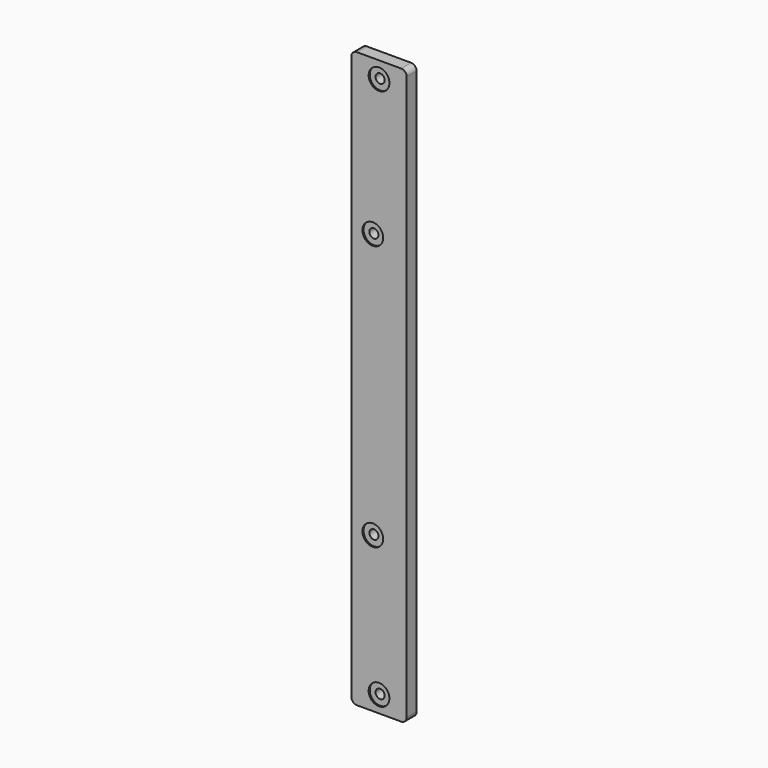
from build123d import *

# Parameters (mm, degrees)
F0_R     = 7.5
F0_R_2   = 3.3
F1_DEPTH = 18
F2_DEPTH = 9
F3_DEPTH = 10


with BuildPart() as f1:
    # F0 (on Front) → F1 (new body)
    with BuildSketch(Plane.XZ):
        with BuildLine():
            ThreePointArc((-56.863438, -160.968715), (-55.691865, -163.797142), (-52.863438, -164.968715))
            Line((-52.863438, -164.968715), (-20.863438, -164.968715))
            ThreePointArc((-20.863438, -164.968715), (-18.035011, -163.797142), (-16.863438, -160.968715))
            Line((-16.863438, -160.968715), (-16.863438, 246.631285))
            ThreePointArc((-16.863438, 246.631285), (-18.035011, 249.459712), (-20.863438, 250.631285))
            Line((-20.863438, 250.631285), (-52.863438, 250.631285))
            ThreePointArc((-52.863438, 250.631285), (-55.691865, 249.459712), (-56.863438, 246.631285))
            Line((-56.863438, 246.631285), (-56.863438, -160.968715))
        make_face()
        with Locations((-36.863438, -152.968715)):
            Circle(F0_R, mode=Mode.SUBTRACT)
        with Locations((-41.363438, -52.968715)):
            Circle(F0_R, mode=Mode.SUBTRACT)
        with Locations((-41.363438, 138.631285)):
            Circle(F0_R, mode=Mode.SUBTRACT)
        with Locations((-36.863438, 238.631285)):
            Circle(F0_R, mode=Mode.SUBTRACT)
        with Locations((-36.863438, 238.631285)):
            Circle(F0_R)
        with Locations((-36.863438, 238.631285)):
            Circle(F0_R_2, mode=Mode.SUBTRACT)
        with Locations((-41.363438, 138.631285)):
            Circle(F0_R)
        with Locations((-41.363438, 138.631285)):
            Circle(F0_R_2, mode=Mode.SUBTRACT)
        with Locations((-41.363438, -52.968715)):
            Circle(F0_R)
        with Locations((-41.363438, -52.968715)):
            Circle(F0_R_2, mode=Mode.SUBTRACT)
        with Locations((-36.863438, -152.968715)):
            Circle(F0_R)
        with Locations((-36.863438, -152.968715)):
            Circle(F0_R_2, mode=Mode.SUBTRACT)
    extrude(amount=-F1_DEPTH)

    # F0 (on Front) → F2 (cut)
    with BuildSketch(Plane.XZ):
        with BuildLine():
            Line((-6.144915, -161.370628), (-6.144915, 246.229372))
            ThreePointArc((-6.144915, 246.229372), (-10.24542, 256.128867), (-20.144915, 260.229372))
            Line((-20.144915, 260.229372), (-52.144915, 260.229372))
            ThreePointArc((-52.144915, 260.229372), (-62.04441, 256.128867), (-66.144915, 246.229372))
            Line((-66.144915, 246.229372), (-66.144915, -161.370628))
            ThreePointArc((-66.144915, -161.370628), (-62.04441, -171.270123), (-52.144915, -175.370628))
            Line((-52.144915, -175.370628), (-20.144915, -175.370628))
            ThreePointArc((-20.144915, -175.370628), (-10.24542, -171.270123), (-6.144915, -161.370628))
        make_face()
        with BuildLine():
            Line((-20.863438, -164.968715), (-52.863438, -164.968715))
            ThreePointArc((-52.863438, -164.968715), (-55.691865, -163.797142), (-56.863438, -160.968715))
            Line((-56.863438, -160.968715), (-56.863438, 246.631285))
            ThreePointArc((-56.863438, 246.631285), (-55.691865, 249.459712), (-52.863438, 250.631285))
            Line((-52.863438, 250.631285), (-20.863438, 250.631285))
            ThreePointArc((-20.863438, 250.631285), (-18.035011, 249.459712), (-16.863438, 246.631285))
            Line((-16.863438, 246.631285), (-16.863438, -160.968715))
            ThreePointArc((-16.863438, -160.968715), (-18.035011, -163.797142), (-20.863438, -164.968715))
        make_face(mode=Mode.SUBTRACT)
        with Locations((-36.863438, 238.631285)):
            Circle(F0_R_2)
        with Locations((-41.363438, 138.631285)):
            Circle(F0_R)
        with Locations((-41.363438, 138.631285)):
            Circle(F0_R_2, mode=Mode.SUBTRACT)
        with Locations((-41.363438, 138.631285)):
            Circle(F0_R_2)
        with Locations((-41.363438, -52.968715)):
            Circle(F0_R)
        with Locations((-41.363438, -52.968715)):
            Circle(F0_R_2, mode=Mode.SUBTRACT)
        with Locations((-41.363438, -52.968715)):
            Circle(F0_R_2)
        with Locations((-36.863438, 238.631285)):
            Circle(F0_R)
        with Locations((-36.863438, 238.631285)):
            Circle(F0_R_2, mode=Mode.SUBTRACT)
        with BuildLine():
            ThreePointArc((-56.863438, -160.968715), (-55.691865, -163.797142), (-52.863438, -164.968715))
            Line((-52.863438, -164.968715), (-20.863438, -164.968715))
            ThreePointArc((-20.863438, -164.968715), (-18.035011, -163.797142), (-16.863438, -160.968715))
            Line((-16.863438, -160.968715), (-16.863438, 246.631285))
            ThreePointArc((-16.863438, 246.631285), (-18.035011, 249.459712), (-20.863438, 250.631285))
            Line((-20.863438, 250.631285), (-52.863438, 250.631285))
            ThreePointArc((-52.863438, 250.631285), (-55.691865, 249.459712), (-56.863438, 246.631285))
            Line((-56.863438, 246.631285), (-56.863438, -160.968715))
        make_face()
        with Locations((-36.863438, -152.968715)):
            Circle(F0_R, mode=Mode.SUBTRACT)
        with Locations((-41.363438, -52.968715)):
            Circle(F0_R, mode=Mode.SUBTRACT)
        with Locations((-41.363438, 138.631285)):
            Circle(F0_R, mode=Mode.SUBTRACT)
        with Locations((-36.863438, 238.631285)):
            Circle(F0_R, mode=Mode.SUBTRACT)
        with Locations((-36.863438, -152.968715)):
            Circle(F0_R)
        with Locations((-36.863438, -152.968715)):
            Circle(F0_R_2, mode=Mode.SUBTRACT)
        with Locations((-36.863438, -152.968715)):
            Circle(F0_R_2)
    extrude(amount=-F2_DEPTH, mode=Mode.SUBTRACT)

    # F0 (on Front) → F3 (cut)
    with BuildSketch(Plane.XZ):
        with Locations((-36.863438, 238.631285)):
            Circle(F0_R)
        with Locations((-36.863438, 238.631285)):
            Circle(F0_R_2, mode=Mode.SUBTRACT)
        with Locations((-41.363438, 138.631285)):
            Circle(F0_R)
        with Locations((-41.363438, 138.631285)):
            Circle(F0_R_2, mode=Mode.SUBTRACT)
        with Locations((-41.363438, -52.968715)):
            Circle(F0_R)
        with Locations((-41.363438, -52.968715)):
            Circle(F0_R_2, mode=Mode.SUBTRACT)
        with Locations((-36.863438, -152.968715)):
            Circle(F0_R)
        with Locations((-36.863438, -152.968715)):
            Circle(F0_R_2, mode=Mode.SUBTRACT)
    extrude(amount=-F3_DEPTH, mode=Mode.SUBTRACT)


solid = f1.part
